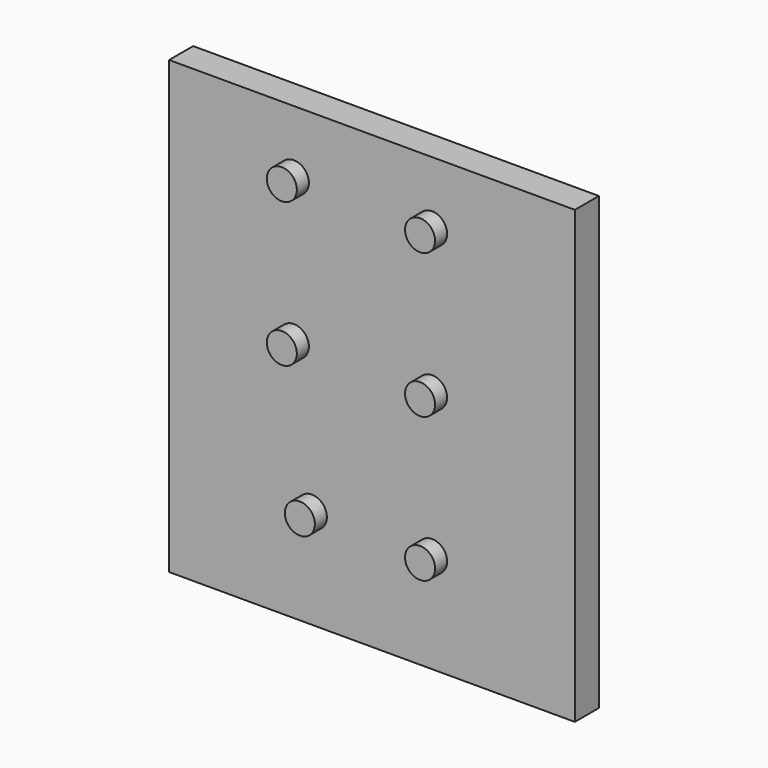
from build123d import *

# Parameters (mm, degrees)
F0_W     = 135
F0_H     = 150
F1_DEPTH = 10
F2_R     = 5
F3_DEPTH = 5


with BuildPart() as f1:
    # F0 (on Front) → F1 (new body)
    with BuildSketch(Plane.XZ):
        Rectangle(F0_W, F0_H)
    extrude(amount=-F1_DEPTH)

    # F2 (on face) → F3 (join)
    with BuildSketch(Plane.XZ):
        with Locations((-20, -41.855509)):
            Circle(F2_R)
        with Locations((20, -41.855509)):
            Circle(F2_R)
        with Locations((20, 6.144491)):
            Circle(F2_R)
        with Locations((-26, 6.144491)):
            Circle(F2_R)
        with Locations((-26, 54.144491)):
            Circle(F2_R)
        with Locations((20, 54.144491)):
            Circle(F2_R)
    extrude(amount=F3_DEPTH)


solid = f1.part
